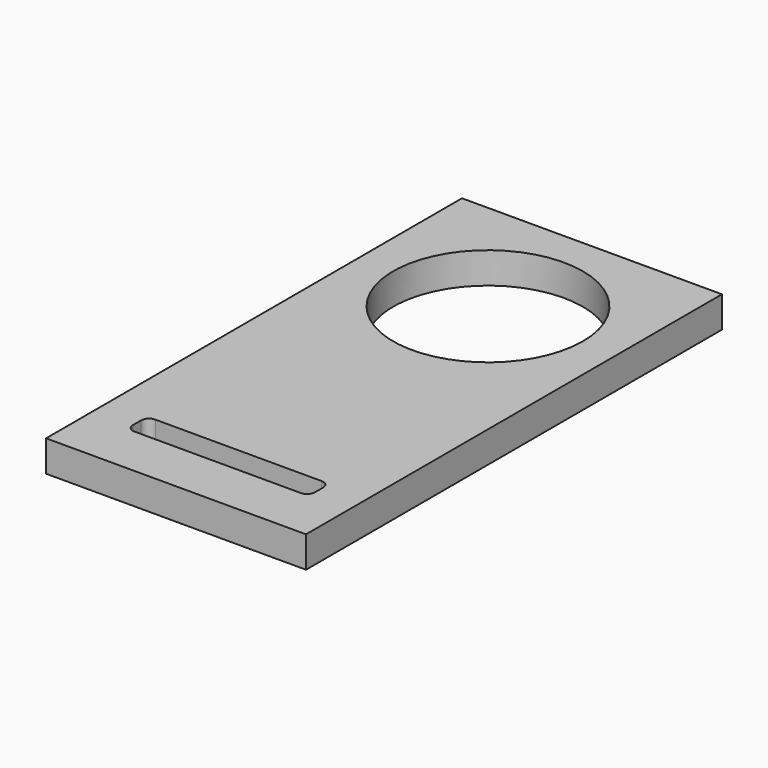
from build123d import *

# Parameters (mm, degrees)
SKETCH_W  = 100
SKETCH_H  = 200
SKETCH_R  = 36.5
PAD_DEPTH = 12


with BuildPart() as part:
    # Sketch → Pad (new body)
    with BuildSketch(Plane.XY):
        with Locations((50, 100)):
            Rectangle(SKETCH_W, SKETCH_H)
        with Locations((50, 150)):
            Circle(SKETCH_R, mode=Mode.SUBTRACT)
        with BuildLine():
            Line((18, 20), (82, 20))
            ThreePointArc((82, 20), (84.12132, 20.87868), (85, 23))
            Line((85, 23), (85, 27))
            ThreePointArc((85, 27), (84.12132, 29.12132), (82, 30))
            Line((82, 30), (18, 30))
            ThreePointArc((18, 30), (15.87868, 29.12132), (15, 27))
            Line((15, 27), (15, 23))
            ThreePointArc((15, 23), (15.87868, 20.87868), (18, 20))
        make_face(mode=Mode.SUBTRACT)
    extrude(amount=PAD_DEPTH)


solid = part.part
